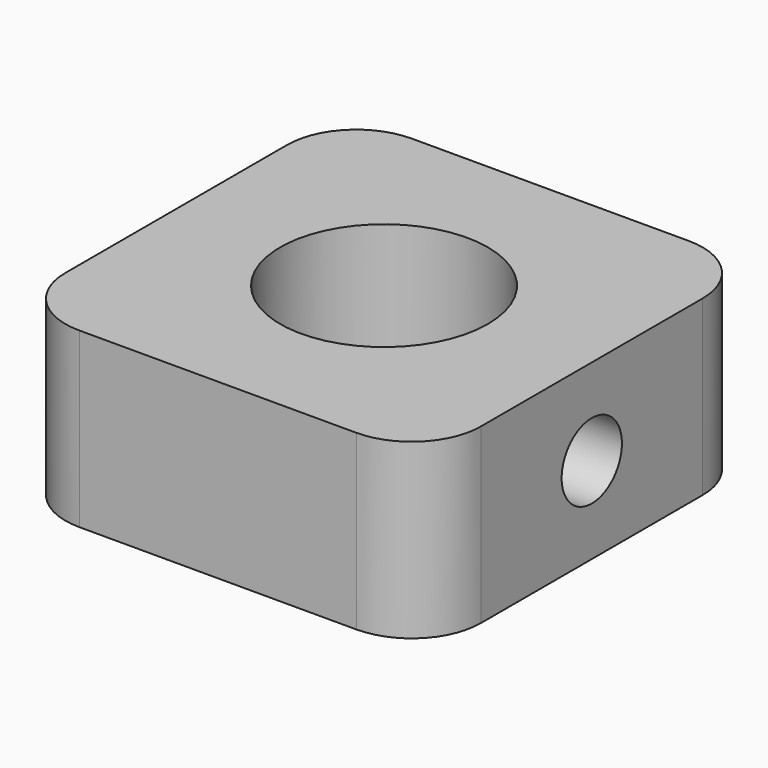
from build123d import *

# Parameters (mm, degrees)
F0_W     = 19.05
F0_H     = 19.05
F0_R     = 4.7625
F1_DEPTH = 7.9375
F2_R     = 3.175
F3_R     = 1.35255
F4_DEPTH = 4.7625
F5_R     = 1.7272
F6_DEPTH = 6.0867362041


with BuildPart() as f1:
    # F0 (on Top) → F1 (new body)
    with BuildSketch(Plane.XY):
        Rectangle(F0_W, F0_H)
        Circle(F0_R, mode=Mode.SUBTRACT)
    extrude(amount=F1_DEPTH)

    # F2
    f2_edges = [f1.edges().sort_by_distance(p)[0] for p in [
        (-9.525, 9.525, 3.96875),
        (-9.525, -9.525, 3.96875),
        (9.525, -9.525, 3.96875),
        (9.525, 9.525, 3.96875),
    ]]
    fillet(f2_edges, radius=F2_R)

    # F3 (on face) → F4 (cut)
    with BuildSketch(Plane(origin=(0, 0, 0), x_dir=(1, 0, 0), z_dir=(0, 0, -1))):
        with Locations((6.35, 6.35)):
            Circle(F3_R)
        with Locations((-6.35, 6.35)):
            Circle(F3_R)
        with Locations((-6.35, -6.35)):
            Circle(F3_R)
        with Locations((6.35, -6.35)):
            Circle(F3_R)
    extrude(amount=-F4_DEPTH, mode=Mode.SUBTRACT)

    # F5 (on face) → F6 (cut, up to face)
    with BuildSketch(Plane.YZ.offset(9.525)):
        with Locations((0, 3.96875)):
            Circle(F5_R)
    extrude(amount=-F6_DEPTH, mode=Mode.SUBTRACT)


solid = f1.part
